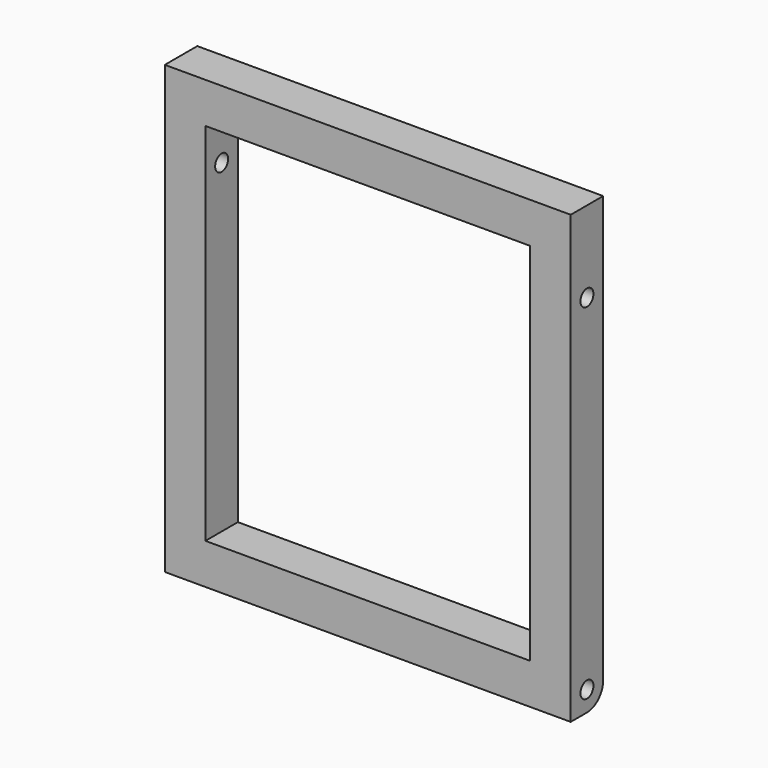
from build123d import *

# Parameters (mm, degrees)
F0_W     = 63.5
F0_H     = 69.85
F0_W_2   = 50.8
F0_H_2   = 57.15
F1_DEPTH = 6.35
F2_R     = 1.27
F3_DEPTH = 63.501
F4_R     = 3.175
F5_R     = 1.27
F6_DEPTH = 63.501


with BuildPart() as f1:
    # F0 (on Front) → F1 (new body)
    with BuildSketch(Plane.XZ):
        with Locations((31.75, -34.925)):
            Rectangle(F0_W, F0_H)
        with Locations((31.75, -34.925)):
            Rectangle(F0_W_2, F0_H_2, mode=Mode.SUBTRACT)
    extrude(amount=-F1_DEPTH)

    # F2 (on face) → F3 (cut, through all)
    with BuildSketch(Plane(origin=(0, 0, 0), x_dir=(0, -1, 0), z_dir=(-1, 0, 0))):
        with Locations((-3.175, -66.675)):
            Circle(F2_R)
    extrude(amount=-F3_DEPTH, mode=Mode.SUBTRACT)

    # F4
    f4_edges = [f1.edges().sort_by_distance(p)[0] for p in [
        (31.75, 6.35, -69.85),
    ]]
    fillet(f4_edges, radius=F4_R)

    # F5 (on face) → F6 (cut, through all)
    with BuildSketch(Plane.YZ.offset(63.5)):
        with Locations((3.175, -12.7)):
            Circle(F5_R)
    extrude(amount=-F6_DEPTH, mode=Mode.SUBTRACT)


solid = f1.part
